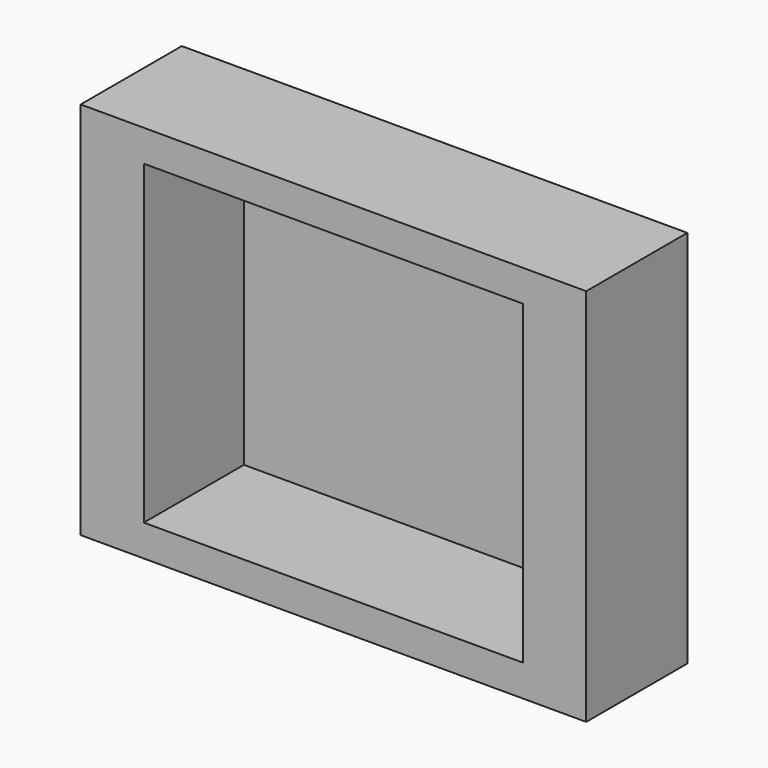
from build123d import *

# Parameters (mm, degrees)
F0_W     = 101.6
F0_H     = 76.2
F0_W_2   = 76.2
F0_H_2   = 63.5
F1_DEPTH = 25.4
F2_DEPTH = 0.254


with BuildPart() as f1:
    # F0 (on Front) → F1 (new body)
    with BuildSketch(Plane.XZ):
        with Locations((-2.502, 7.319848)):
            Rectangle(F0_W, F0_H)
        with Locations((-2.502, 7.319848)):
            Rectangle(F0_W_2, F0_H_2, mode=Mode.SUBTRACT)
    extrude(amount=F1_DEPTH)


with BuildPart() as f2:
    # F0 (on Front) → F2 (new body)
    with BuildSketch(Plane.XZ):
        with Locations((-2.502, 7.319848)):
            Rectangle(F0_W_2, F0_H_2)
    extrude(amount=F2_DEPTH)


solid = Compound([f1.part, f2.part])
